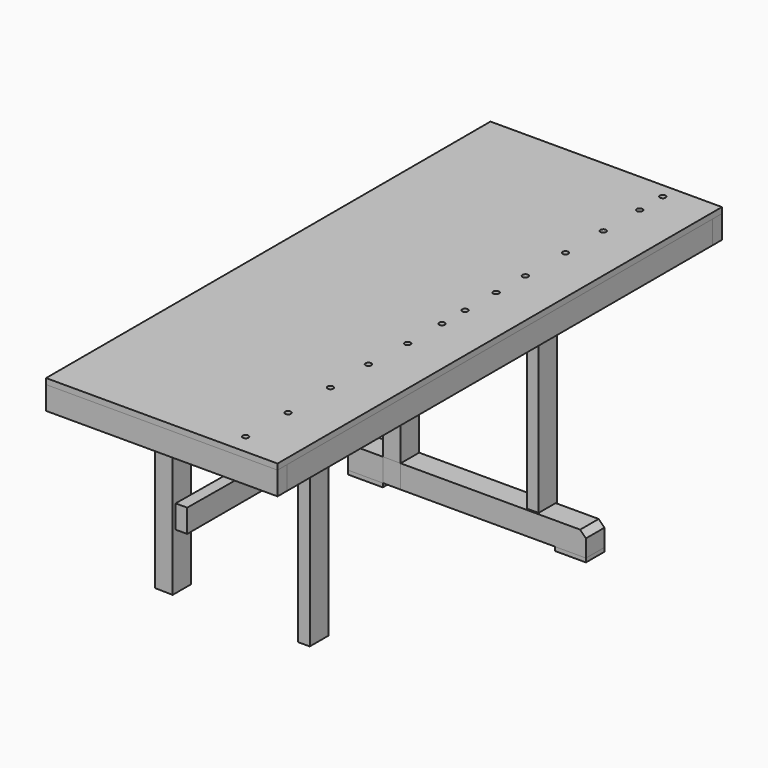
from build123d import *

# Parameters (mm, degrees)
F0_W       = 762
F0_H       = 1828.8
F1_DEPTH   = 19.05
F2_W       = 762
F2_H       = 38.1
F3_DEPTH   = 76.2
F4_W       = 762
F4_H       = 38.1
F5_DEPTH   = 76.2
F7_W       = 38.1
F7_H       = 76.2
F8_DEPTH   = 1752.6
F9_W       = 38.1
F9_H       = 76.2
F10_DEPTH  = 1752.6
F12_DEPTH  = 1752.6
F13_W      = 38.1
F13_H      = 76.2
F14_DEPTH  = 1752.6
F15_W      = 38.1
F15_H      = 76.2
F16_DEPTH  = 1752.6
F18_W      = 38.1
F18_H      = 76.2
F19_DEPTH  = 1752.6
F22_D      = 19.05
F22_2_D    = 19.05
F22_3_D    = 19.05
F24_DEPTH  = 609.6
F25_W      = 58.7409883738
F25_H      = 76.2
F26_DEPTH  = 609.6
F28_DEPTH  = 609.6
F29_W      = 38.1
F29_H      = 76.2
F30_DEPTH  = 609.6
F31_W      = 610.0938469172
F31_H      = 76.2
F31_W_2    = 114.0424311161
F32_DEPTH  = 76.2
F33_SIZE   = 19.05
F34_SIZE   = 19.05
F35_W      = 58.7409883738
F35_H      = 76.2
F36_DEPTH  = 76.2
F37_W      = 101.6
F37_H      = 76.2
F39_DEPTH  = 12.7
F38_W      = 114.0424311161
F38_H      = 76.2
F40_DEPTH  = 12.7
F14_FACE_W = 1752.6
F14_FACE_H = 76.2
F42_DEPTH  = 38.1


with BuildPart() as f1:
    # F0 (on Top) → F1 (new body)
    with BuildSketch(Plane.XY):
        with Locations((156.6775417852, -52.9719665647)):
            Rectangle(F0_W, F0_H)
    extrude(amount=F1_DEPTH)

    # F22 (through all)
    with Locations(Plane.XY.offset(19.05)):
        with Locations((381.7314505577, 127.086520195), (379.9389600754, -901.7078876495), (382.7484548092, 246.4299201965), (382.7484548092, 716.4303064346), (382.7484548092, 567.0645833015), (381.4212679863, -95.2504873276), (374.8842775822, -390.0103569031), (379.7795772552, -552.127122879), (382.2215199471, -729.3429374695), (382.7484548092, 811.8742108345), (381.4212679863, 0), (381.4212679863, -236.6940975189), (382.7484548092, 411.4217758179)):
            Hole(F22_D / 2)


with BuildPart() as f3:
    # F2 (on face) → F3 (new body)
    with BuildSketch(Plane(origin=(0, 0, 0), x_dir=(1, 0, 0), z_dir=(0, 0, -1))):
        with Locations((156.6775417852, 948.3219665647)):
            Rectangle(F2_W, F2_H)
    extrude(amount=F3_DEPTH)


with BuildPart() as f5:
    # F4 (on face) → F5 (new body)
    with BuildSketch(Plane(origin=(0, 0, 0), x_dir=(1, 0, 0), z_dir=(0, 0, -1))):
        with Locations((156.6775417852, -842.3780334353)):
            Rectangle(F4_W, F4_H)
    extrude(amount=F5_DEPTH)


with BuildPart() as f8:
    # F7 (on face) → F8 (new body)
    with BuildSketch(Plane(origin=(0, -929.2719665647, 0), x_dir=(-1, 0, 0), z_dir=(0, 1, 0))):
        with Locations((205.2724582148, -38.1)):
            Rectangle(F7_W, F7_H)
    extrude(amount=F8_DEPTH)


with BuildPart() as f10:
    # F9 (on face) → F10 (new body)
    with BuildSketch(Plane.XZ.offset(-823.3280334353)):
        with Locations((518.6275417852, -38.1)):
            Rectangle(F9_W, F9_H)
    extrude(amount=F10_DEPTH)


with BuildPart() as f12:
    # F11 (on face) → F12 (new body)
    with BuildSketch(Plane(origin=(0, -929.2719665647, 0), x_dir=(-1, 0, 0), z_dir=(0, 1, 0))):
        Polygon((115.4259741306, -71.988940239), (109.2653423548, 0), (56.6849857569, 0), (56.6849857569, -71.988940239), align=None)
    extrude(amount=F12_DEPTH)


with BuildPart() as f14:
    # F13 (on face) → F14 (new body)
    with BuildSketch(Plane.XZ.offset(-823.3280334353)):
        with Locations((137.6275417852, -38.1)):
            Rectangle(F13_W, F13_H)
    extrude(amount=F14_DEPTH)


with BuildPart() as f16:
    # F15 (on face) → F16 (new body)
    with BuildSketch(Plane.XZ.offset(-823.3280334353)):
        with Locations((406.6241958618, -38.1)):
            Rectangle(F15_W, F15_H)
    extrude(amount=F16_DEPTH)

    # F22#2 (through all)
    with Locations(Plane.XY.offset(19.05)):
        with Locations((381.7314505577, 127.086520195), (379.9389600754, -901.7078876495), (382.7484548092, 246.4299201965), (382.7484548092, 716.4303064346), (382.7484548092, 567.0645833015), (381.4212679863, -95.2504873276), (374.8842775822, -390.0103569031), (379.7795772552, -552.127122879), (382.2215199471, -729.3429374695), (382.7484548092, 811.8742108345), (381.4212679863, 0), (381.4212679863, -236.6940975189), (382.7484548092, 411.4217758179)):
            Hole(F22_2_D / 2)


with BuildPart() as f19:
    # F18 (on face) → F19 (new body)
    with BuildSketch(Plane.XZ.offset(-823.3280334353)):
        with Locations((373.7127759933, -38.1)):
            Rectangle(F18_W, F18_H)
    extrude(amount=F19_DEPTH)

    # F22#3 (through all)
    with Locations(Plane.XY.offset(19.05)):
        with Locations((381.7314505577, 127.086520195), (379.9389600754, -901.7078876495), (382.7484548092, 246.4299201965), (382.7484548092, 716.4303064346), (382.7484548092, 567.0645833015), (381.4212679863, -95.2504873276), (374.8842775822, -390.0103569031), (379.7795772552, -552.127122879), (382.2215199471, -729.3429374695), (382.7484548092, 811.8742108345), (381.4212679863, 0), (381.4212679863, -236.6940975189), (382.7484548092, 411.4217758179)):
            Hole(F22_3_D / 2)


with BuildPart() as f24:
    # F23 (on face) → F24 (new body)
    with BuildSketch(Plane(origin=(0, 0, -71.988940239), x_dir=(1, 0, 0), z_dir=(0, 0, -1))):
        Polygon((-56.6849857569, 656.0398340225), (-115.4259741306, 654.6224355698), (-115.4259741306, 579.8398340225), (-56.6849857569, 579.8398340225), align=None)
    extrude(amount=F24_DEPTH)


with BuildPart() as f26:
    # F25 (on face) → F26 (new body)
    with BuildSketch(Plane(origin=(0, 0, -71.988940239), x_dir=(1, 0, 0), z_dir=(0, 0, -1))):
        with Locations((-86.0554799438, -320.3513068199)):
            Rectangle(F25_W, F25_H)
    extrude(amount=F26_DEPTH)



with BuildPart() as f28:
    # F27 (on face) → F28 (new body)
    with BuildSketch(Plane(origin=(0, 0, -76.2), x_dir=(1, 0, 0), z_dir=(0, 0, -1))):
        Polygon((354.6627759933, 653.5687362671), (354.6627759933, 577.3687362671), (392.7627759933, 576.8280029297), (392.7627759933, 653.5687362671), align=None)
    extrude(amount=F28_DEPTH)


with BuildPart() as f30:
    # F29 (on face) → F30 (new body)
    with BuildSketch(Plane(origin=(0, 0, -76.2), x_dir=(1, 0, 0), z_dir=(0, 0, -1))):
        with Locations((373.7127759933, -326.2261790276)):
            Rectangle(F29_W, F29_H)
    extrude(amount=F30_DEPTH)


with BuildPart() as f26_1:
    add(f26.part)

    add(f30.part)  # F32 merges F30
    # F31 (on face) → F32 (join)
    with BuildSketch(Plane(origin=(0, 0, -681.588940239), x_dir=(1, 0, 0), z_dir=(0, 0, -1))):
        with Locations((248.3619377017, -320.3513068199)):
            Rectangle(F31_W, F31_H)
        with Locations((-172.4471896887, -320.3513068199)):
            Rectangle(F31_W_2, F31_H)
    extrude(amount=F32_DEPTH)

    # F33
    f33_edges = [f26_1.edges().sort_by_distance(p)[0] for p in [
        (553.408861, 320.351307, -681.58894),
    ]]
    chamfer(f33_edges, length=F33_SIZE)

    # F34
    f34_edges = [f26_1.edges().sort_by_distance(p)[0] for p in [
        (-229.468405, 320.351307, -681.58894),
    ]]
    chamfer(f34_edges, length=F34_SIZE)


with BuildPart() as f36:
    # F35 (on face) → F36 (new body)
    with BuildSketch(Plane(origin=(0, 0, -681.588940239), x_dir=(1, 0, 0), z_dir=(0, 0, -1))):
        with Locations((-86.0554799438, -320.3513068199)):
            Rectangle(F35_W, F35_H)
    extrude(amount=F36_DEPTH)


with BuildPart() as f39:
    # F37 (on face) → F39 (new body)
    with BuildSketch(Plane(origin=(0, 0, -757.788940239), x_dir=(1, 0, 0), z_dir=(0, 0, -1))):
        with Locations((502.6088611603, -320.3513068199)):
            Rectangle(F37_W, F37_H)
    extrude(amount=F39_DEPTH)


with BuildPart() as f40:
    # F38 (on face) → F40 (new body)
    with BuildSketch(Plane(origin=(0, 0, -757.788940239), x_dir=(1, 0, 0), z_dir=(0, 0, -1))):
        with Locations((-172.4471896887, -320.3513068199)):
            Rectangle(F38_W, F38_H)
    extrude(amount=F40_DEPTH)


with BuildPart() as f42:
    # F41 (on face) + F14_face (on face) → F42 (new body)
    with BuildSketch(Plane.YZ.offset(-56.6849857569)):
        Polygon((282.2513068199, -497.4191700935), (282.2513068199, -427.8157031211), (-643.7537074089, -421.2191700935), (-643.7537074089, -497.4191700935), align=None)
    with BuildSketch(Plane(origin=(156.6775417852, -52.9719665647, -38.1), x_dir=(0, 1, 0), z_dir=(1, 0, 0))):
        Rectangle(F14_FACE_W, F14_FACE_H)
    extrude(amount=F42_DEPTH)


solid = Compound([f1.part, f3.part, f5.part, f8.part, f10.part, f12.part, f14.part, f16.part, f19.part, f24.part, f28.part, f26_1.part, f36.part, f39.part, f40.part, f42.part])
